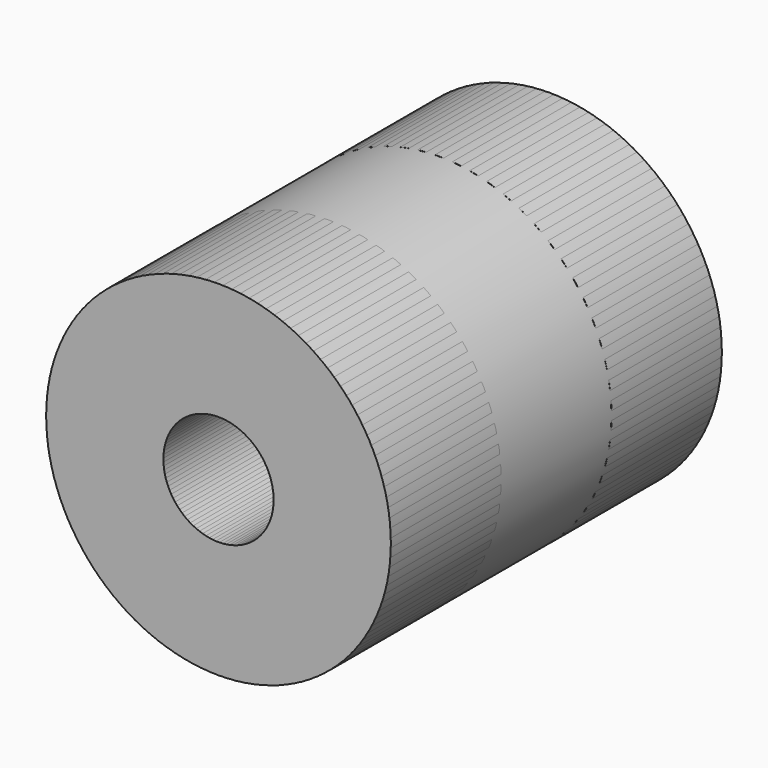
from build123d import *

# Parameters (mm, degrees)
F0_R     = 12.5
F0_R_2   = 3.125
F1_DEPTH = 30
F3_R     = 4
F4_DEPTH = 22


with BuildPart() as f1:
    # F0 (on Front) → F1 (new body)
    with BuildSketch(Plane.XZ):
        Circle(F0_R)
        Circle(F0_R_2, mode=Mode.SUBTRACT)
    extrude(amount=F1_DEPTH)

    # F3 (on offset) → F4 (cut, through all)
    with BuildSketch(Plane.XZ.offset(8)):
        Circle(F3_R)
    extrude(amount=F4_DEPTH, mode=Mode.SUBTRACT)


with BuildPart() as f6:
    # F5 (on Right) → F6 (revolve)
    with BuildSketch(Plane.YZ):
        with BuildLine():
            Line((-20, 12.5), (-30, 12.5))
            Line((-30, 12.5), (-30, 4))
            Line((-30, 4), (-8, 4))
            Line((-8, 4), (-8, 3.175))
            Line((-8, 3.175), (0, 3.175))
            Line((0, 3.175), (0, 12.5))
            Line((0, 12.5), (-10, 12.5))
            ThreePointArc((-10, 12.5), (-15, 7.5), (-20, 12.5))
        make_face()
    revolve(axis=Axis((0, -15.032032, 0), (0, 1, 0)))


solid = Compound([f1.part, f6.part])
